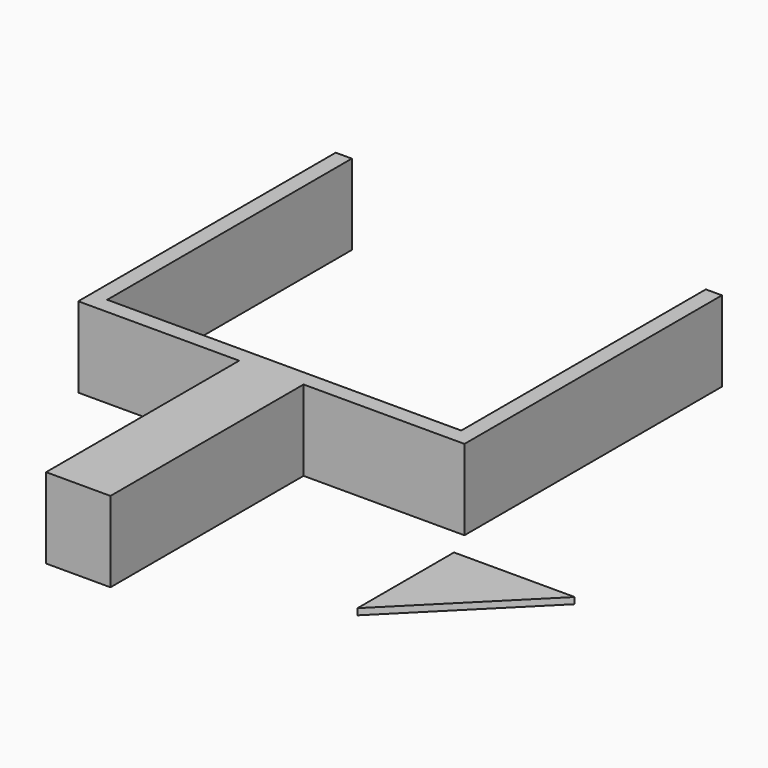
from build123d import *

# Parameters (mm, degrees)
F1_DEPTH = 12.7
F3_DEPTH = 1


with BuildPart() as f1:
    # F0 (on Top) → F1 (new body)
    with BuildSketch(Plane.XY):
        Polygon((-4.908747, -19.090921), (-4.908747, -57.190921), (5.251253, -57.190921), (5.251253, -19.090921), (30.651253, -19.090921), (30.651253, 31.709079), (28.111253, 31.709079), (28.111253, -16.550921), (-27.768747, -16.550921), (-27.768747, 31.709079), (-30.308747, 31.709079), (-30.308747, -19.090921), align=None)
    extrude(amount=F1_DEPTH)


with BuildPart() as f3:
    # F2 (on Top) → F3 (new body)
    with BuildSketch(Plane.XY):
        Polygon((52.753499, -24.96505), (33.703499, -24.96505), (33.703499, -44.01505), align=None)
    extrude(amount=F3_DEPTH)


solid = Compound([f1.part, f3.part])
